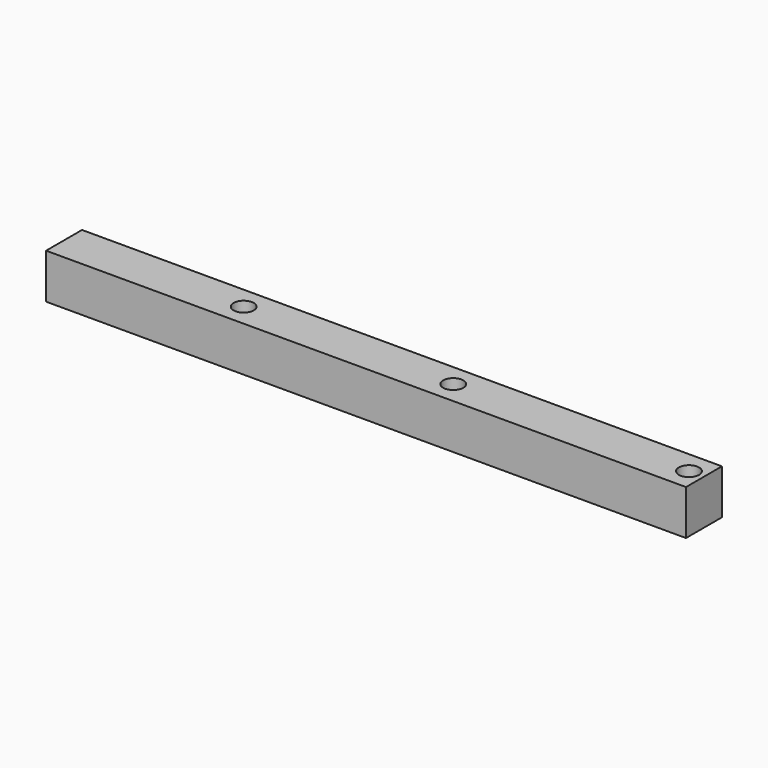
from build123d import *

# Parameters (mm, degrees)
F0_W     = 650
F0_H     = 20
F1_DEPTH = 20
F3_D     = 9
F4_W     = 365
F4_H     = 20
F4_R     = 4.5
F5_DEPTH = 25


with BuildPart() as f1:
    # F0 (on Top) → F1 (new body)
    with BuildSketch(Plane.XY):
        with Locations((-0.1587718725, -31.5417255368)):
            Rectangle(F0_W, F0_H)
    extrude(amount=F1_DEPTH)

    # F3 (through all)
    with Locations(Plane.XY.offset(20)):
        with Locations((-245.1587718725, -31.5417255368), (-151.8187718725, -31.5417255368), (-46.8287718725, -31.5417255368), (46.5112281275, -31.5417255368)):
            Hole(F3_D / 2)

    # F4 (on face) → F5 (cut)
    with BuildSketch(Plane.XY.offset(20)):
        with Locations((142.3412281275, -31.5417255368)):
            Rectangle(F4_W, F4_H)
        with Locations((46.5112281275, -31.5417255368)):
            Circle(F4_R, mode=Mode.SUBTRACT)
    extrude(amount=-F5_DEPTH, mode=Mode.SUBTRACT)


solid = f1.part
